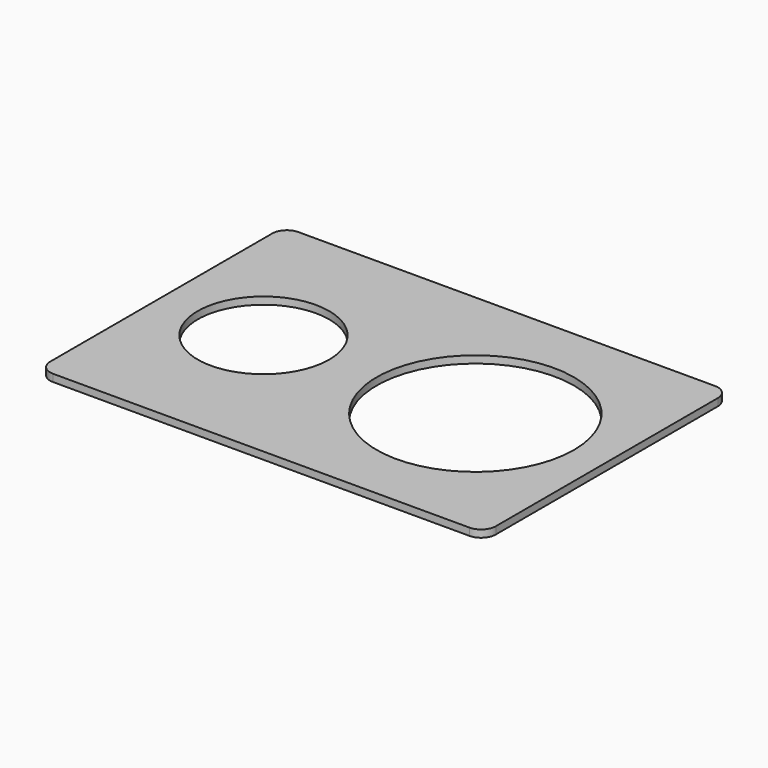
from build123d import *

# Parameters (mm, degrees)
F0_W     = 61
F0_H     = 42
F0_R     = 9
F0_R_2   = 13.5
F1_DEPTH = 1
F2_R     = 2


with BuildPart() as f1:
    # F0 (on Top) → F1 (new body)
    with BuildSketch(Plane.XY):
        Rectangle(F0_W, F0_H)
        with Locations((-16.5, 0)):
            Circle(F0_R, mode=Mode.SUBTRACT)
        with Locations((12.5, 0)):
            Circle(F0_R_2, mode=Mode.SUBTRACT)
    extrude(amount=F1_DEPTH)

    # F2
    f2_edges = [f1.edges().sort_by_distance(p)[0] for p in [
        (-30.5, 21, 0.5),
        (30.5, 21, 0.5),
        (30.5, -21, 0.5),
        (-30.5, -21, 0.5),
    ]]
    fillet(f2_edges, radius=F2_R)


solid = f1.part
